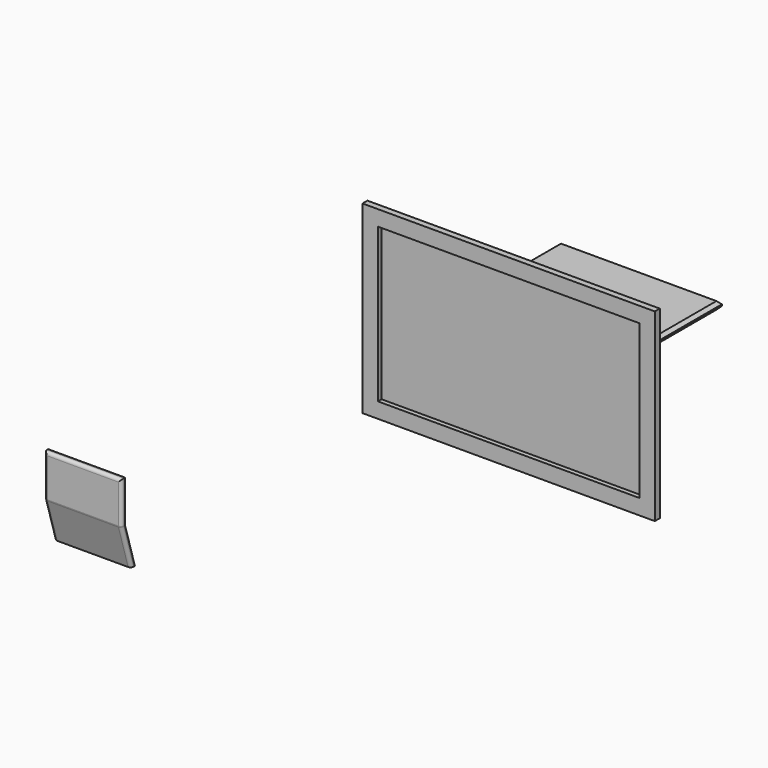
from build123d import *

# Parameters (mm, degrees)
F0_W      = 482.6
F0_H      = 304.8
F0_W_2    = 431.8
F0_H_2    = 254
F1_DEPTH  = 15.24
F2_DEPTH  = 7.62
F3_W      = 266.7
F3_H      = 152.4
F4_DEPTH  = 12.7
F5_SIZE   = 5.08
F5_2_SIZE = 5.08
F7_DEPTH  = 127
F8_R      = 5.08


with BuildPart() as f1:
    # F0 (on Front) → F1 (new body)
    with BuildSketch(Plane.XZ):
        with Locations((559.631395, 0)):
            Rectangle(F0_W, F0_H)
        with Locations((559.631395, 0)):
            Rectangle(F0_W_2, F0_H_2, mode=Mode.SUBTRACT)
    extrude(amount=F1_DEPTH)

    # F0 (on Front) → F2 (join)
    with BuildSketch(Plane.XZ):
        with Locations((559.631395, 0)):
            Rectangle(F0_W_2, F0_H_2)
    extrude(amount=F2_DEPTH)

    # F5#2
    f5_2_edges = [f1.edges().sort_by_distance(p)[0] for p in [
        (318.331395, 0, 0),
        (559.631395, 0, -152.4),
        (800.931395, 0, 0),
        (559.631395, 0, 152.4),
    ]]
    chamfer(f5_2_edges, length=F5_2_SIZE)


with BuildPart() as f4:
    # F3 (on Top) → F4 (new body)
    with BuildSketch(Plane.XY):
        with Locations((548.835635, 195.44692)):
            Rectangle(F3_W, F3_H)
    extrude(amount=F4_DEPTH)

    # F5
    f5_edges = [f4.edges().sort_by_distance(p)[0] for p in [
        (548.835635, 271.64692, 0),
        (548.835635, 271.64692, 12.7),
        (415.485635, 195.44692, 0),
        (415.485635, 195.44692, 12.7),
        (682.185635, 195.44692, 0),
        (682.185635, 195.44692, 12.7),
        (548.835635, 119.24692, 12.7),
        (548.835635, 119.24692, 0),
    ]]
    chamfer(f5_edges, length=F5_SIZE)


with BuildPart() as f7:
    # F6 (on Right) → F7 (new body)
    with BuildSketch(Plane.YZ):
        with BuildLine():
            Line((-266.022326, -275.217943), (-266.022326, -206.304147))
            Line((-266.022326, -206.304147), (-273.642326, -206.304147))
            Line((-273.642326, -206.304147), (-273.642326, -275.217943))
            ThreePointArc((-273.642326, -275.217943), (-273.624954, -275.687329), (-273.572933, -276.154147))
            ThreePointArc((-273.572933, -276.154147), (-273.488767, -276.605967), (-273.372143, -277.050517))
            Line((-273.372143, -277.050517), (-253.484011, -343.032131))
            Line((-253.484011, -343.032131), (-245.864011, -343.032131))
            Line((-245.864011, -343.032131), (-265.752143, -277.050517))
            ThreePointArc((-265.752143, -277.050517), (-265.954417, -276.144135), (-266.022326, -275.217943))
        make_face()
    extrude(amount=F7_DEPTH)

    # F8
    f8_edges = [f7.edges().sort_by_distance(p)[0] for p in [
        (0, -249.674011, -343.032131),
        (0, -263.428077, -310.041324),
        (127, -273.642326, -240.761045),
        (63.5, -273.642326, -206.304147),
        (63.5, -273.642326, -275.217943),
    ]]
    fillet(f8_edges, radius=F8_R)


solid = Compound([f1.part, f4.part, f7.part])
